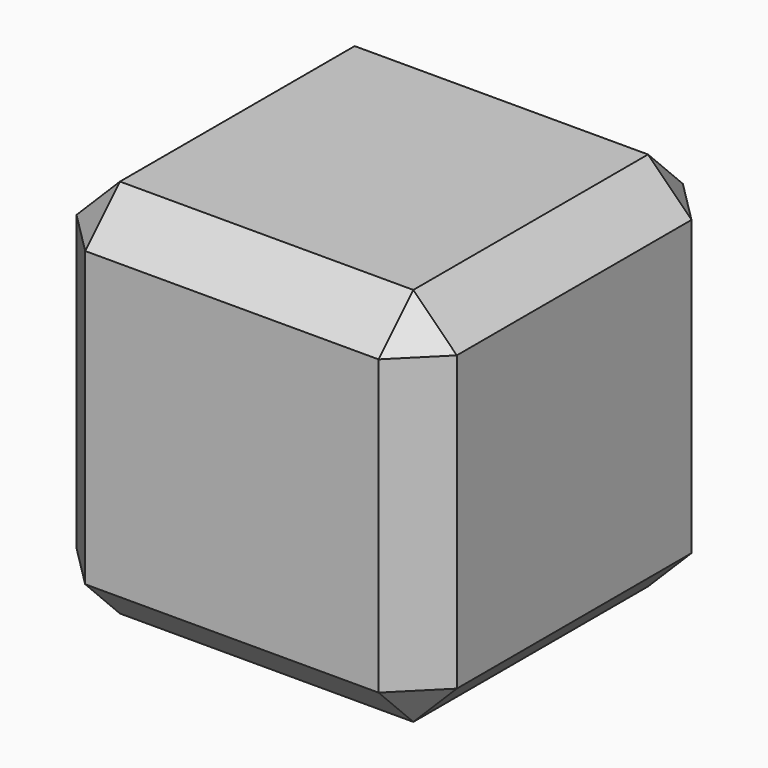
from build123d import *

# Parameters (mm, degrees)
F0_W     = 17.5
F0_H     = 17.5
F1_DEPTH = 8.75
F2_SIZE  = 2


with BuildPart() as f1:
    # F0 (on Top) → F1 (new body, symmetric)
    with BuildSketch(Plane.XY):
        Rectangle(F0_W, F0_H)
    extrude(amount=F1_DEPTH, both=True)

    # F2
    f2_edges = [f1.edges().sort_by_distance(p)[0] for p in [
        (-8.75, 0, 8.75),
        (0, -8.75, 8.75),
        (8.75, 0, 8.75),
        (0, 8.75, 8.75),
        (8.75, -8.75, 0),
        (8.75, 8.75, 0),
        (8.75, 0, -8.75),
        (0, 8.75, -8.75),
        (-8.75, 8.75, 0),
        (-8.75, -8.75, 0),
        (0, -8.75, -8.75),
        (-8.75, 0, -8.75),
    ]]
    chamfer(f2_edges, length=F2_SIZE)


solid = f1.part
